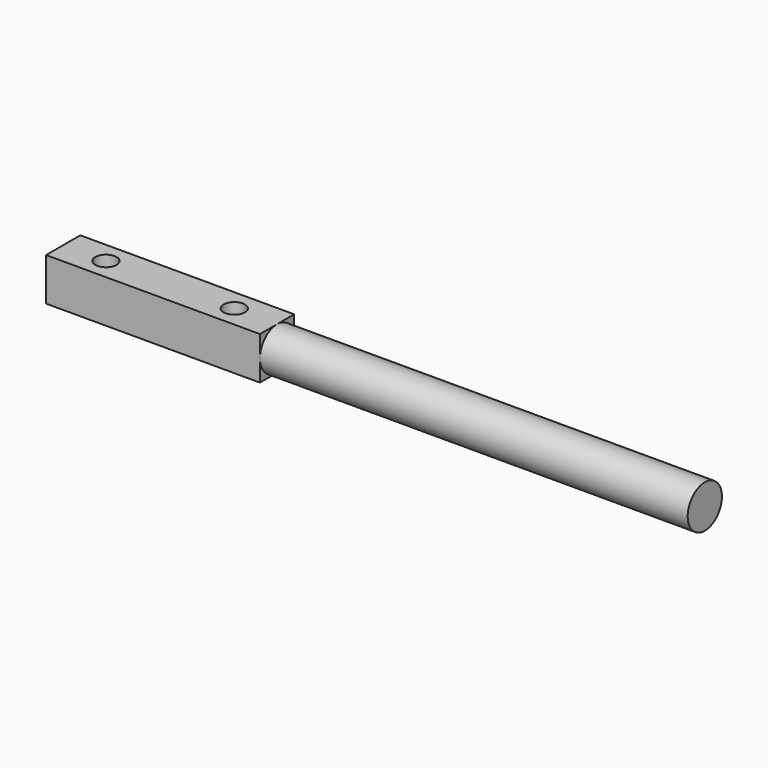
from build123d import *

# Parameters (mm, degrees)
F0_W     = 12.7
F0_H     = 12.7
F1_DEPTH = 63.5
F2_R     = 6.35
F3_DEPTH = 127
F4_R     = 3.175
F5_DEPTH = 12.701


with BuildPart() as f1:
    # F0 (on Right) → F1 (new body)
    with BuildSketch(Plane.YZ):
        Rectangle(F0_W, F0_H)
    extrude(amount=F1_DEPTH)

    # F2 (on face) → F3 (join)
    with BuildSketch(Plane.YZ.offset(63.5)):
        Circle(F2_R)
    extrude(amount=F3_DEPTH)

    # F4 (on face) → F5 (cut, through all)
    with BuildSketch(Plane.XY.offset(6.35)):
        with Locations((12.7, 0)):
            Circle(F4_R)
        with Locations((50.8, 0)):
            Circle(F4_R)
    extrude(amount=-F5_DEPTH, mode=Mode.SUBTRACT)


solid = f1.part
